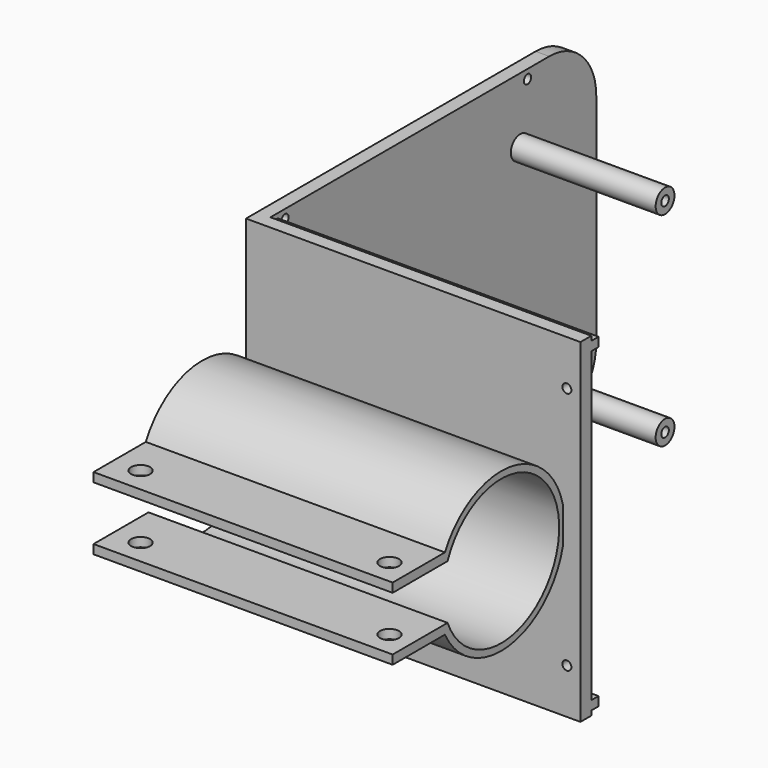
from build123d import *

# Parameters (mm, degrees)
SKETCH105_W     = 73.9
SKETCH105_H     = 3
PAD050_DEPTH    = 73.9
SKETCH108_R     = 1
PAD052_DEPTH    = 3
SKETCH109_W     = 70.9
SKETCH109_H     = 2
PAD053_DEPTH    = 2
SKETCH110_R     = 2.6
PAD056_DEPTH    = 35
SKETCH111_R     = 1.05
POCKET060_DEPTH = 8
PAD060_START    = 3.9
SKETCH125_R     = 17.5
PAD060_DEPTH    = 66.1
SKETCH126_R     = 16
SKETCH126_W     = 30
SKETCH126_H     = 12
POCKET075_DEPTH = 73.901
PAD061_START    = 3.9
SKETCH127_W     = 15
SKETCH127_H     = 2
PAD061_DEPTH    = 66.1
SKETCH128_R     = 2.1
POCKET076_DEPTH = 73.901
SKETCH129_R     = 1
POCKET077_DEPTH = 5


with BuildPart() as part:
    # Sketch105 → Pad050 (new body)
    with BuildSketch(Plane.XY):
        with Locations((36.95, 1.5)):
            Rectangle(SKETCH105_W, SKETCH105_H)
    extrude(amount=PAD050_DEPTH)

    # Sketch108 → Pad052 (join)
    with BuildSketch(Plane.YZ):
        with BuildLine():
            Line((3, 0), (80, 0))
            ThreePointArc((80, 0), (89.1923881554, 3.8076118446), (93, 13))
            Line((93, 13), (93, 60.9))
            ThreePointArc((93, 60.9), (89.1923881554, 70.0923881554), (80, 73.9))
            Line((80, 73.9), (3, 73.9))
            Line((3, 73.9), (3, 0))
        make_face()
        with Locations((7, 2)):
            Circle(SKETCH108_R, mode=Mode.SUBTRACT)
        with Locations((74, 2)):
            Circle(SKETCH108_R, mode=Mode.SUBTRACT)
        with Locations((7, 71.9)):
            Circle(SKETCH108_R, mode=Mode.SUBTRACT)
        with Locations((74, 71.9)):
            Circle(SKETCH108_R, mode=Mode.SUBTRACT)
    extrude(amount=PAD052_DEPTH)

    # Sketch109 → Pad053 (join)
    with BuildSketch(Plane(origin=(0, 3, 0), x_dir=(-1, 0, 0), z_dir=(0, 1, 0))):
        with Locations((-38.45, 2)):
            Rectangle(SKETCH109_W, SKETCH109_H)
        with Locations((-38.45, 71.9)):
            Rectangle(SKETCH109_W, SKETCH109_H)
    extrude(amount=PAD053_DEPTH)

    # Sketch110 → Pad056 (join)
    with BuildSketch(Plane.YZ):
        with Locations((72, 14.45)):
            Circle(SKETCH110_R)
        with Locations((8, 14.45)):
            Circle(SKETCH110_R)
        with Locations((8, 59.45)):
            Circle(SKETCH110_R)
        with Locations((72, 59.45)):
            Circle(SKETCH110_R)
    extrude(amount=PAD056_DEPTH)

    # Sketch111 → Pocket060 (cut)
    with BuildSketch(Plane.YZ.offset(35)):
        with Locations((8, 14.45)):
            Circle(SKETCH111_R)
        with Locations((72, 14.45)):
            Circle(SKETCH111_R)
        with Locations((8, 59.45)):
            Circle(SKETCH111_R)
        with Locations((72, 59.45)):
            Circle(SKETCH111_R)
    extrude(amount=-POCKET060_DEPTH, mode=Mode.SUBTRACT)

    # Sketch125 → Pad060 (join)
    with BuildSketch(Plane.YZ.offset(PAD060_START)):
        with Locations((-17, 36.95)):
            Circle(SKETCH125_R)
    extrude(amount=PAD060_DEPTH)

    # Sketch126 → Pocket075 (cut, through all)
    with BuildSketch(Plane.YZ):
        with Locations((-17, 36.95)):
            Circle(SKETCH126_R)
        with Locations((-27.180588, 36.95)):
            Rectangle(SKETCH126_W, SKETCH126_H)
    extrude(amount=POCKET075_DEPTH, mode=Mode.SUBTRACT)

    # Sketch127 → Pad061 (join)
    with BuildSketch(Plane.YZ.offset(PAD061_START)):
        with Locations((-39.5, 43.95)):
            Rectangle(SKETCH127_W, SKETCH127_H)
        with Locations((-39.5, 29.95)):
            Rectangle(SKETCH127_W, SKETCH127_H)
    extrude(amount=PAD061_DEPTH)

    # Sketch128 → Pocket076 (cut, through all)
    with BuildSketch(Plane.XY):
        with Locations((9.9, -41.5)):
            Circle(SKETCH128_R)
        with Locations((64.9, -41.5)):
            Circle(SKETCH128_R)
    extrude(amount=POCKET076_DEPTH, mode=Mode.SUBTRACT)

    # Sketch129 → Pocket077 (cut)
    with BuildSketch(Plane.XZ):
        with Locations((70.9, 10)):
            Circle(SKETCH129_R)
        with Locations((70.9, 63.9)):
            Circle(SKETCH129_R)
    extrude(amount=-POCKET077_DEPTH, mode=Mode.SUBTRACT)


solid = part.part
